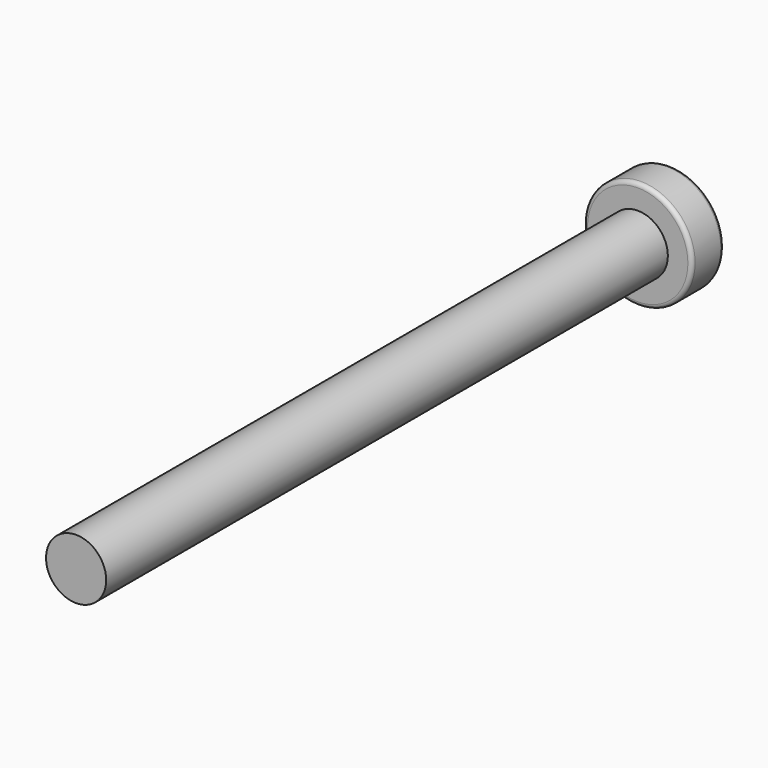
from build123d import *

# Parameters (mm, degrees)
FILLET_R     = 0.2
POCKET_DEPTH = 1.3


with BuildPart() as part:
    # Sketch → Revolution (revolve)
    with BuildSketch(Plane.XY):
        Polygon((0, 0), (0, 37), (2.7, 37), (2.7, 35), (1.5, 35), (1.5, 0), align=None)
    revolve(axis=Axis((0, 0, 0), (0, 1, 0)))

    # Fillet
    fillet_edges = [part.edges().sort_by_distance(p)[0] for p in [
        (-2.7, 35, 0),
        (-2.7, 37, 0),
    ]]
    fillet(fillet_edges, radius=FILLET_R)

    # Sketch001 (on Face1 of Fillet) → Pocket (cut)
    with BuildSketch(Plane(origin=(0, 37, 0), x_dir=(-1, 0, 0), z_dir=(0, 1, 0))):
        Polygon((0.5, 1.5), (0.5, 0.5), (1.5, 0.5), (1.5, -0.5), (0.5, -0.5), (0.5, -1.5), (-0.5, -1.5), (-0.5, -0.5), (-1.5, -0.5), (-1.5, 0.5), (-0.5, 0.5), (-0.5, 1.5), align=None)
    extrude(amount=-POCKET_DEPTH, mode=Mode.SUBTRACT)


solid = part.part
